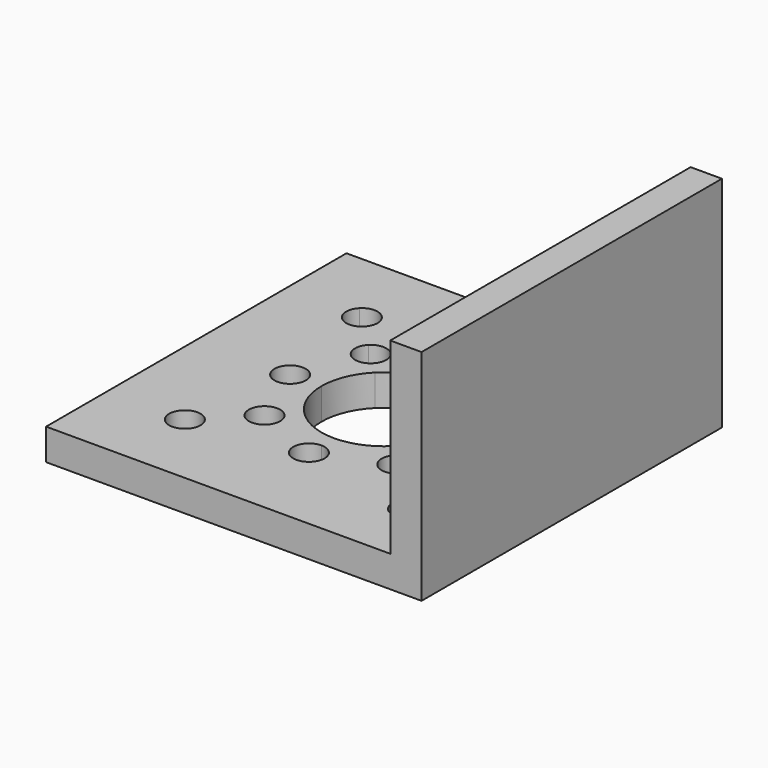
from build123d import *

# Parameters (mm, degrees)
F1_DEPTH = 3.175
F2_W     = 3.175
F2_H     = 38.1
F3_DEPTH = 19.05


with BuildPart() as f1:
    # F0 (on Top) → F1 (new body)
    with BuildSketch(Plane.XY):
        with BuildLine():
            Line((0, 10.6418100238), (0, 29.6918100238))
            Line((0, 29.6918100238), (-7.9375, 29.6918100238))
            ThreePointArc((-7.9375, 29.6918100238), (-9.525, 28.1043100238), (-11.1125, 29.6918100238))
            Line((-11.1125, 29.6918100238), (-12.7, 29.6918100238))
            ThreePointArc((-12.7, 29.6918100238), (-13.1833649686, 27.2617702283), (-14.5598719395, 25.2016819633))
            Line((-14.5598719395, 25.2016819633), (-13.4373399243, 24.0791499481))
            ThreePointArc((-13.4373399243, 24.0791499481), (-11.7072979603, 24.4232766908), (-10.7273079092, 22.956617933))
            ThreePointArc((-10.7273079092, 22.956617933), (-10.8481491513, 22.3491079841), (-11.1922758941, 21.8340859178))
            Line((-11.1922758941, 21.8340859178), (-8.0172758941, 18.6590859178))
            ThreePointArc((-8.0172758941, 18.6590859178), (-6.2872339301, 19.0032126606), (-5.3072438789, 17.5365539027))
            ThreePointArc((-5.3072438789, 17.5365539027), (-5.4280851211, 16.9290439538), (-5.7722118638, 16.4140218876))
            Line((-5.7722118638, 16.4140218876), (0, 10.6418100238))
        make_face()
        with BuildLine():
            Line((-19.05, 18.5793100238), (-19.05, 10.6418100238))
            Line((-19.05, 10.6418100238), (0, 10.6418100238))
            Line((0, 10.6418100238), (-5.7722118638, 16.4140218876))
            ThreePointArc((-5.7722118638, 16.4140218876), (-8.0172758941, 16.4140218876), (-8.0172758941, 18.6590859178))
            Line((-8.0172758941, 18.6590859178), (-11.1922758941, 21.8340859178))
            ThreePointArc((-11.1922758941, 21.8340859178), (-13.4373399243, 21.8340859178), (-13.4373399243, 24.0791499481))
            Line((-13.4373399243, 24.0791499481), (-14.5598719395, 25.2016819633))
            ThreePointArc((-14.5598719395, 25.2016819633), (-16.6199602045, 23.8251749923), (-19.05, 23.3418100238))
            Line((-19.05, 23.3418100238), (-19.05, 21.7543100238))
            ThreePointArc((-19.05, 21.7543100238), (-17.9274679849, 21.2893420389), (-17.4625, 20.1668100238))
            ThreePointArc((-17.4625, 20.1668100238), (-17.9274679849, 19.0442780087), (-19.05, 18.5793100238))
        make_face()
        with BuildLine():
            Line((-31.3978521665, 17.3439578573), (-38.1, 10.6418100238))
            Line((-38.1, 10.6418100238), (-19.05, 10.6418100238))
            Line((-19.05, 10.6418100238), (-19.05, 18.5793100238))
            ThreePointArc((-19.05, 18.5793100238), (-20.6375, 20.1668100238), (-19.05, 21.7543100238))
            Line((-19.05, 21.7543100238), (-19.05, 23.3418100238))
            ThreePointArc((-19.05, 23.3418100238), (-21.4800397955, 23.8251749923), (-23.5401280605, 25.2016819632))
            Line((-23.5401280605, 25.2016819633), (-24.6626600757, 24.0791499481))
            ThreePointArc((-24.6626600757, 24.0791499481), (-24.3185333329, 23.5641278819), (-24.1976920908, 22.956617933))
            ThreePointArc((-24.1976920908, 22.956617933), (-25.1776821419, 21.4899591751), (-26.9077241059, 21.8340859178))
            Line((-26.9077241059, 21.8340859178), (-29.1527881362, 19.5890218876))
            ThreePointArc((-29.1527881362, 19.5890218876), (-28.8086613935, 19.0739998213), (-28.6878201513, 18.4664898724))
            ThreePointArc((-28.6878201513, 18.4664898724), (-29.6678102025, 16.9998311146), (-31.3978521665, 17.3439578573))
        make_face()
        with BuildLine():
            Line((-30.1625, 29.6918100238), (-38.1, 29.6918100238))
            Line((-38.1, 29.6918100238), (-38.1, 10.6418100238))
            Line((-38.1, 10.6418100238), (-31.3978521665, 17.3439578573))
            ThreePointArc((-31.3978521665, 17.3439578573), (-31.3978521665, 19.5890218876), (-29.1527881362, 19.5890218876))
            Line((-29.1527881362, 19.5890218876), (-26.9077241059, 21.8340859178))
            ThreePointArc((-26.9077241059, 21.8340859178), (-26.9077241059, 24.0791499481), (-24.6626600757, 24.0791499481))
            Line((-24.6626600757, 24.0791499481), (-23.5401280605, 25.2016819633))
            ThreePointArc((-23.5401280605, 25.2016819632), (-24.9166350314, 27.2617702283), (-25.4, 29.6918100238))
            Line((-25.4, 29.6918100238), (-26.9875, 29.6918100238))
            ThreePointArc((-26.9875, 29.6918100238), (-28.575, 28.1043100238), (-30.1625, 29.6918100238))
        make_face()
        with BuildLine():
            Line((-31.3978521665, 42.0396621903), (-38.1, 48.7418100238))
            Line((-38.1, 48.7418100238), (-38.1, 29.6918100238))
            Line((-38.1, 29.6918100238), (-30.1625, 29.6918100238))
            ThreePointArc((-30.1625, 29.6918100238), (-28.575, 31.2793100238), (-26.9875, 29.6918100238))
            Line((-26.9875, 29.6918100238), (-25.4, 29.6918100238))
            ThreePointArc((-25.4, 29.6918100238), (-24.9166350314, 32.1218498193), (-23.5401280605, 34.1819380843))
            Line((-23.5401280605, 34.1819380843), (-24.6626600757, 35.3044700995))
            ThreePointArc((-24.6626600757, 35.3044700995), (-26.9077241059, 35.3044700995), (-26.9077241059, 37.5495341297))
            Line((-26.9077241059, 37.5495341297), (-29.1527881362, 39.79459816))
            ThreePointArc((-29.1527881362, 39.79459816), (-31.3978521665, 39.79459816), (-31.3978521665, 42.0396621903))
        make_face()
        with BuildLine():
            Line((-19.05, 48.7418100238), (-38.1, 48.7418100238))
            Line((-38.1, 48.7418100238), (-31.3978521665, 42.0396621903))
            ThreePointArc((-31.3978521665, 42.0396621903), (-29.6678102025, 42.383788933), (-28.6878201513, 40.9171301751))
            ThreePointArc((-28.6878201513, 40.9171301751), (-28.8086613935, 40.3096202262), (-29.1527881362, 39.79459816))
            Line((-29.1527881362, 39.79459816), (-26.9077241059, 37.5495341297))
            ThreePointArc((-26.9077241059, 37.5495341297), (-25.1776821419, 37.8936608724), (-24.1976920908, 36.4270021146))
            ThreePointArc((-24.1976920908, 36.4270021146), (-24.3185333329, 35.8194921657), (-24.6626600757, 35.3044700995))
            Line((-24.6626600757, 35.3044700995), (-23.5401280605, 34.1819380843))
            ThreePointArc((-23.5401280605, 34.1819380843), (-21.4800397955, 35.5584450552), (-19.05, 36.0418100238))
            Line((-19.05, 36.0418100238), (-19.05, 37.6293100238))
            ThreePointArc((-19.05, 37.6293100238), (-20.6375, 39.2168100238), (-19.05, 40.8043100238))
            Line((-19.05, 40.8043100238), (-19.05, 48.7418100238))
        make_face()
        with BuildLine():
            Line((0, 48.7418100238), (-19.05, 48.7418100238))
            Line((-19.05, 48.7418100238), (-19.05, 40.8043100238))
            ThreePointArc((-19.05, 40.8043100238), (-17.9274679849, 40.3393420389), (-17.4625, 39.2168100238))
            ThreePointArc((-17.4625, 39.2168100238), (-17.9274679849, 38.0942780087), (-19.05, 37.6293100238))
            Line((-19.05, 37.6293100238), (-19.05, 36.0418100238))
            ThreePointArc((-19.05, 36.0418100238), (-16.6199602045, 35.5584450552), (-14.5598719395, 34.1819380843))
            Line((-14.5598719395, 34.1819380843), (-13.4373399243, 35.3044700995))
            ThreePointArc((-13.4373399243, 35.3044700995), (-13.4373399243, 37.5495341297), (-11.1922758941, 37.5495341297))
            Line((-11.1922758941, 37.5495341297), (-8.9472118638, 39.79459816))
            ThreePointArc((-8.9472118638, 39.79459816), (-8.9472118638, 42.0396621903), (-6.7021478335, 42.0396621903))
            Line((-6.7021478335, 42.0396621903), (0, 48.7418100238))
        make_face()
        with BuildLine():
            Line((0, 29.6918100238), (0, 48.7418100238))
            Line((0, 48.7418100238), (-6.7021478335, 42.0396621903))
            ThreePointArc((-6.7021478335, 42.0396621903), (-6.3580210908, 41.524640124), (-6.2371798487, 40.9171301751))
            ThreePointArc((-6.2371798487, 40.9171301751), (-7.2171698998, 39.4504714173), (-8.9472118638, 39.79459816))
            Line((-8.9472118638, 39.79459816), (-11.1922758941, 37.5495341297))
            ThreePointArc((-11.1922758941, 37.5495341297), (-10.8481491513, 37.0345120635), (-10.7273079092, 36.4270021146))
            ThreePointArc((-10.7273079092, 36.4270021146), (-11.7072979603, 34.9603433567), (-13.4373399243, 35.3044700995))
            Line((-13.4373399243, 35.3044700995), (-14.5598719395, 34.1819380843))
            ThreePointArc((-14.5598719395, 34.1819380843), (-13.1833649686, 32.1218498193), (-12.7, 29.6918100238))
            Line((-12.7, 29.6918100238), (-11.1125, 29.6918100238))
            ThreePointArc((-11.1125, 29.6918100238), (-9.525, 31.2793100238), (-7.9375, 29.6918100238))
            Line((-7.9375, 29.6918100238), (0, 29.6918100238))
        make_face()
    extrude(amount=F1_DEPTH)

    # F2 (on face) → F3 (join)
    with BuildSketch(Plane.XY.offset(3.175)):
        with Locations((-1.5875, 29.6918100238)):
            Rectangle(F2_W, F2_H)
    extrude(amount=F3_DEPTH)


solid = f1.part
